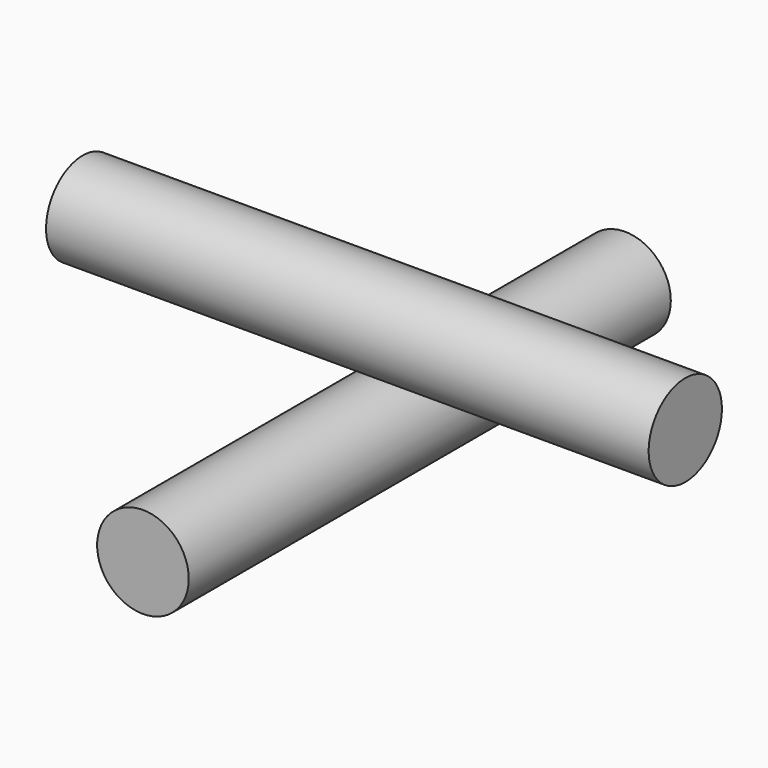
from build123d import *

# Parameters (mm, degrees)
F0_R     = 3.8
F1_DEPTH = 25
F3_DEPTH = 25


with BuildPart() as f1:
    # F0 (on Front) → F1 (new body, symmetric)
    with BuildSketch(Plane.XZ):
        Circle(F0_R)
    extrude(amount=F1_DEPTH, both=True)


with BuildPart() as f3:
    # F2 (on Right) → F3 (new body, symmetric)
    with BuildSketch(Plane.YZ):
        with BuildLine():
            ThreePointArc((0, 3.8), (2.687006, 4.912994), (3.8, 7.6))
            ThreePointArc((3.8, 7.6), (-2.687006, 10.287006), (0, 3.8))
        make_face()
    extrude(amount=F3_DEPTH, both=True)


solid = Compound([f1.part, f3.part])
